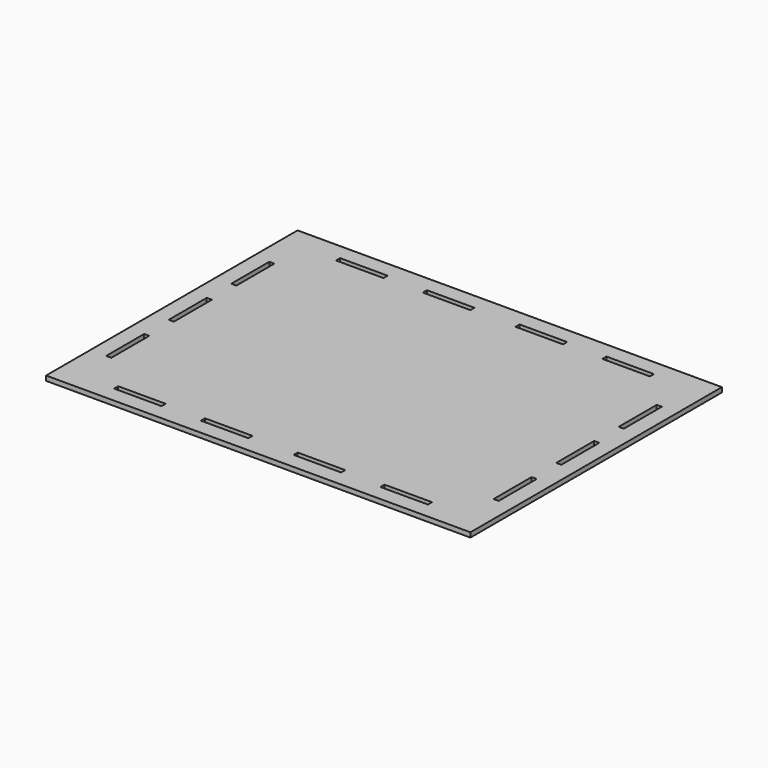
from build123d import *

# Parameters (mm, degrees)
F0_W     = 270
F0_H     = 200
F1_DEPTH = 3
F2_W     = 30.25
F2_H     = 3.25
F2_W_2   = 3.25
F2_H_2   = 30.25
F3_DEPTH = 3


with BuildPart() as f1:
    # F0 (on Top) → F1 (new body)
    with BuildSketch(Plane.XY):
        Rectangle(F0_W, F0_H)
    extrude(amount=F1_DEPTH)

    # F2 (on face) → F3 (cut)
    with BuildSketch(Plane.XY.offset(3)):
        with Locations((-84.75, -88.25)):
            Rectangle(F2_W, F2_H)
        with Locations((-29.5, -88.25)):
            Rectangle(F2_W, F2_H)
        with Locations((123.25, 49.75)):
            Rectangle(F2_W_2, F2_H_2)
        with Locations((123.25, 0)):
            Rectangle(F2_W_2, F2_H_2)
        with Locations((-84.75, 88.25)):
            Rectangle(F2_W, F2_H)
        with Locations((-29.5, 88.25)):
            Rectangle(F2_W, F2_H)
        with Locations((29.5, -88.25)):
            Rectangle(F2_W, F2_H)
        with Locations((84.75, -88.25)):
            Rectangle(F2_W, F2_H)
        with Locations((84.75, 88.25)):
            Rectangle(F2_W, F2_H)
        with Locations((29.5, 88.25)):
            Rectangle(F2_W, F2_H)
        with Locations((123.25, -49.75)):
            Rectangle(F2_W_2, F2_H_2)
        with Locations((-123.25, -49.75)):
            Rectangle(F2_W_2, F2_H_2)
        with Locations((-123.25, 49.75)):
            Rectangle(F2_W_2, F2_H_2)
        with Locations((-123.25, 0)):
            Rectangle(F2_W_2, F2_H_2)
    extrude(amount=-F3_DEPTH, mode=Mode.SUBTRACT)


solid = f1.part
